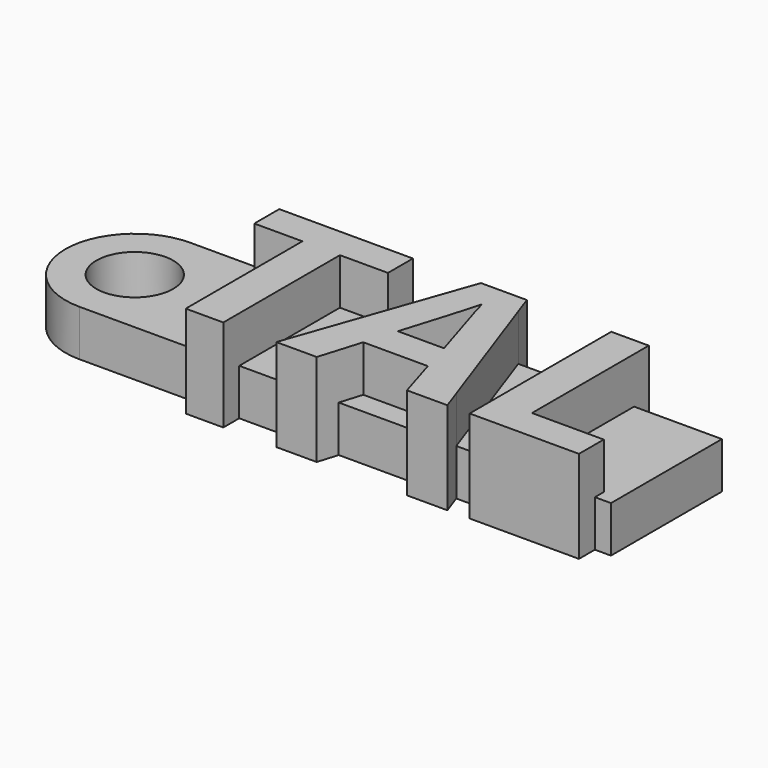
from build123d import *

# Parameters (mm, degrees)
F1_DEPTH = 3
F0_W     = 2.4358974359
F0_H     = 1.292
F0_W_2   = 8.6726998492
F0_H_2   = 1.1936711916
F0_W_3   = 7.094017094
F2_DEPTH = 6


with BuildPart() as f1:
    # F0 (on Top) → F1 (new body)
    with BuildSketch(Plane.XY):
        with BuildLine():
            Line((-19.5, -4.5), (-15, -4.5))
            Line((-15, -4.5), (-15, 0))
            Line((-15, 0), (-17.0055641305, 0))
            ThreePointArc((-17.0055641305, 0), (-19.5, -2.4944358695), (-21.9944358695, 0))
            Line((-21.9944358695, 0), (-24, 0))
            ThreePointArc((-24, 0), (-22.6819805153, -3.1819805153), (-19.5, -4.5))
        make_face()
        with BuildLine():
            Line((-17.0055641305, 0), (-15, 0))
            Line((-15, 0), (-15, 4.5))
            Line((-15, 4.5), (-19.5, 4.5))
            ThreePointArc((-19.5, 4.5), (-22.6819805153, 3.1819805153), (-24, 0))
            Line((-24, 0), (-21.9944358695, 0))
            ThreePointArc((-21.9944358695, 0), (-19.5, 2.4944358695), (-17.0055641305, 0))
        make_face()
        Polygon((-15, 0), (-15, -4.5), (-11.5585721468, -4.5), (-11.5585721468, 3.6675274007), (-14.6782302665, 3.6675274007), (-14.6782302665, 4.5), (-15, 4.5), align=None)
    extrude(amount=F1_DEPTH)



with BuildPart() as f1b:
    # F0 (on Top) → F1, piece 2 (new body)
    with BuildSketch(Plane.XY):
        Polygon((-9.1226747109, 3.6675274007), (-9.1226747109, -4.5), (-5.2295331336, -4.5), (-2.0654093324, 4.5), (-6.0055304173, 4.5), (-6.0055304173, 3.6675274007), align=None)
    extrude(amount=F1_DEPTH)


with BuildPart() as f1c:
    # F0 (on Top) → F1, piece 3 (new body)
    with BuildSketch(Plane.XY):
        Polygon((-2.2272498743, -3.056957265), (-2.6662637946, -4.5), (2.399798234, -4.5), (1.9607843137, -3.056957265), align=None)
    extrude(amount=F1_DEPTH)


with BuildPart() as f1d:
    # F0 (on Top) → F1, piece 4 (new body)
    with BuildSketch(Plane.XY):
        with BuildLine():
            Line((-1.6138763198, -1.0157305178), (1.3775766717, -1.0157305178))
            add(Edge.make_bspline(
                [(1.3775766717, -1.0157305178), (0.2237305178, 2.6997043741), (0.0779286073, 3.1873866264)],
                knots=[0, 0, 0, 1, 1, 1], degree=2))
            add(Edge.make_bspline(
                [(0.0779286073, 3.1873866264), (-0.0678733032, 3.6750688788), (-0.1307189542, 3.9566173957)],
                knots=[0, 0, 0, 1, 1, 1], degree=2))
            add(Edge.make_bspline(
                [(-0.1307189542, 3.9566173957), (-0.3896430367, 2.9510869784), (-1.6138763198, -1.0157305178)],
                knots=[0, 0, 0, 1, 1, 1], degree=2))
        make_face()
    extrude(amount=F1_DEPTH)


with BuildPart() as f1e:
    # F0 (on Top) → F1, piece 5 (new body)
    with BuildSketch(Plane.XY):
        Polygon((6.862745098, 4.5), (1.7854843124, 4.5), (4.9613779479, -4.5), (6.862745098, -4.5), align=None)
    extrude(amount=F1_DEPTH)


with BuildPart() as f1f:
    # F0 (on Top) → F1, piece 6 (new body)
    with BuildSketch(Plane.XY):
        Polygon((15, 4.5), (9.2986425339, 4.5), (9.2986425339, -3.7809391654), (13.9567621921, -3.7809391654), (13.9567621921, -4.5), (15, -4.5), align=None)
    extrude(amount=F1_DEPTH)


with BuildPart() as f1_1:
    add(f1.part)

    add(f1b.part)  # F2 merges F1b

    add(f1c.part)  # F2 merges F1c

    add(f1d.part)  # F2 merges F1d

    add(f1e.part)  # F2 merges F1e

    add(f1f.part)  # F2 merges F1f
    # F0 (on Top) → F2 (join)
    with BuildSketch(Plane.XY):
        Polygon((-11.5585721468, 3.6675274007), (-11.5585721468, -4.5), (-9.1226747109, -4.5), (-9.1226747109, 3.6675274007), (-6.0055304173, 3.6675274007), (-6.0055304173, 4.5), (-14.6782302665, 4.5), (-14.6782302665, 3.6675274007), align=None)
        with Locations((-10.3406234289, -5.146)):
            Rectangle(F0_W, F0_H)
        with Locations((-10.3418803419, 5.0968355958)):
            Rectangle(F0_W_2, F0_H_2)
        Polygon((-2.0654093324, 4.5), (-5.2295331336, -4.5), (-2.6662637946, -4.5), (-2.2272498743, -3.056957265), (1.9607843137, -3.056957265), (2.399798234, -4.5), (4.9613779479, -4.5), (1.7854843124, 4.5), align=None)
        with BuildLine():
            add(Edge.make_bspline(
                [(1.3775766717, -1.0157305178), (0.2237305178, 2.6997043741), (0.0779286073, 3.1873866264)],
                knots=[0, 0, 0, 1, 1, 1], degree=2))
            Line((1.3775766717, -1.0157305178), (-1.6138763198, -1.0157305178))
            add(Edge.make_bspline(
                [(-0.1307189542, 3.9566173957), (-0.3896430367, 2.9510869784), (-1.6138763198, -1.0157305178)],
                knots=[0, 0, 0, 1, 1, 1], degree=2))
            add(Edge.make_bspline(
                [(0.0779286073, 3.1873866264), (-0.0678733032, 3.6750688788), (-0.1307189542, 3.9566173957)],
                knots=[0, 0, 0, 1, 1, 1], degree=2))
        make_face(mode=Mode.SUBTRACT)
        Polygon((4.9613779479, -4.5), (2.399798234, -4.5), (2.792860734, -5.792), (5.4172951232, -5.792), align=None)
        Polygon((-2.6662637946, -4.5), (-5.2295331336, -4.5), (-5.6837606838, -5.792), (-3.0593262946, -5.792), align=None)
        Polygon((-1.628959276, 5.7414338864), (-2.0654093324, 4.5), (1.7854843124, 4.5), (1.3474107592, 5.7414338864), align=None)
        with Locations((10.409753645, -5.146)):
            Rectangle(F0_W_3, F0_H)
        Polygon((9.2986425339, 4.5), (6.862745098, 4.5), (6.862745098, -4.5), (13.9567621921, -4.5), (13.9567621921, -3.7809391654), (9.2986425339, -3.7809391654), align=None)
        with Locations((8.080693816, 5.0968355958)):
            Rectangle(F0_W, F0_H_2)
    extrude(amount=F2_DEPTH)


solid = f1_1.part
